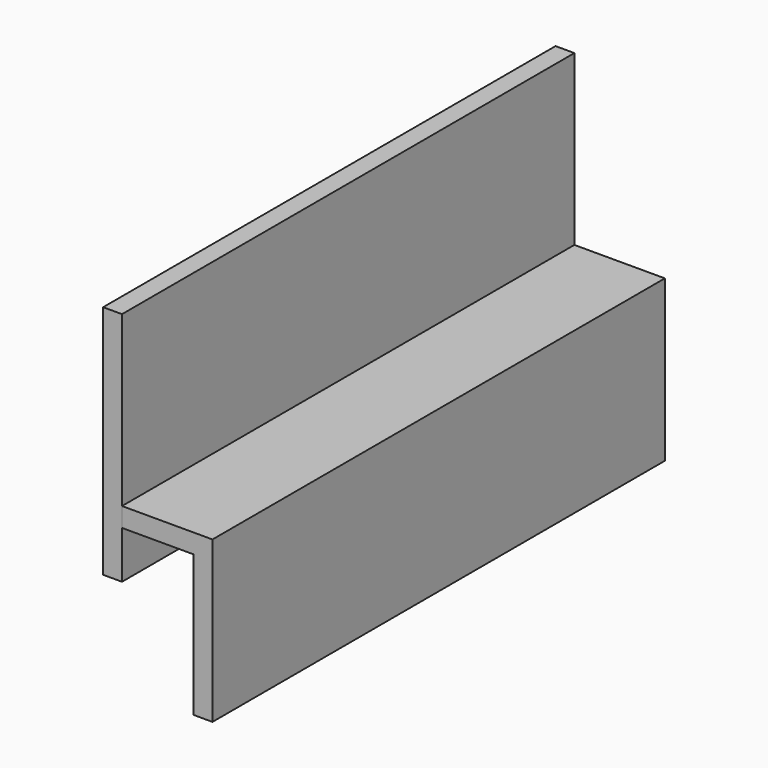
from build123d import *

# Parameters (mm, degrees)
F0_W     = 152.4
F0_H     = 63.5
F1_DEPTH = 5.08
F3_W     = 152.400844
F3_H     = 5.193346
F4_DEPTH = 24.384
F5_W     = 5.08
F5_H     = 152.400844
F6_DEPTH = 38.1


with BuildPart() as f1:
    # F0 (on Right) → F1 (new body)
    with BuildSketch(Plane.YZ):
        Rectangle(F0_W, F0_H)
    extrude(amount=-F1_DEPTH)

    # F3 (on face) → F4 (join)
    with BuildSketch(Plane.YZ):
        with Locations((0.000302, -16.370494)):
            Rectangle(F3_W, F3_H)
    extrude(amount=F4_DEPTH)

    # F5 (on face) → F6 (join)
    with BuildSketch(Plane(origin=(0, 0, -18.967167), x_dir=(1, 0, 0), z_dir=(0, 0, -1))):
        with Locations((21.844, -0.000302)):
            Rectangle(F5_W, F5_H)
    extrude(amount=F6_DEPTH)


solid = f1.part
